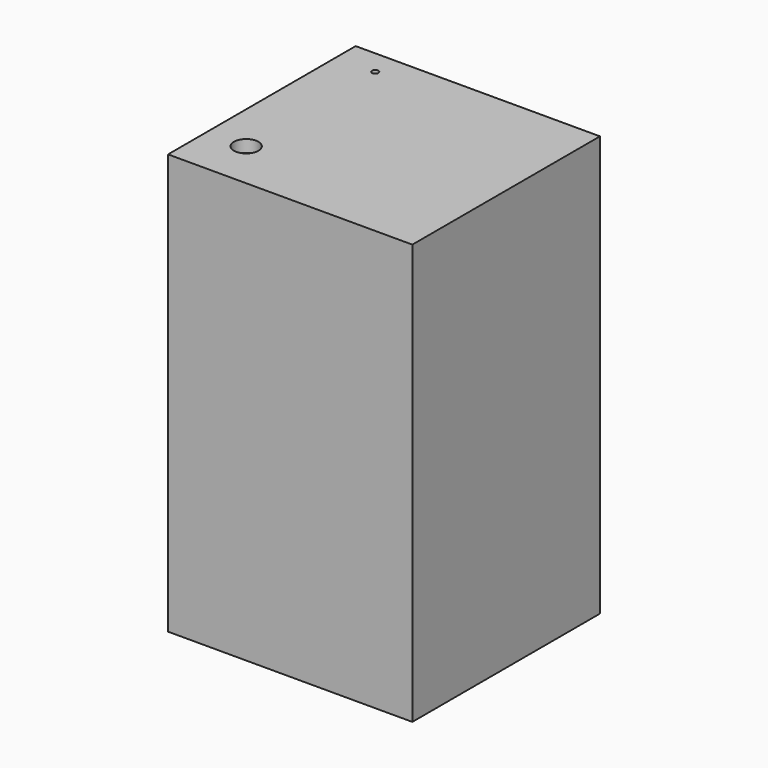
from build123d import *

# Parameters (mm, degrees)
F0_W     = 500
F0_H     = 480
F1_DEPTH = 860
F2_R     = 25
F2_R_2   = 6.5
F3_DEPTH = 25
F4_R     = 6.5
F5_DEPTH = 25


with BuildPart() as f1:
    # F0 (on Top) → F1 (new body)
    with BuildSketch(Plane.XY):
        with Locations((-14.175494, 74.637805)):
            Rectangle(F0_W, F0_H)
    extrude(amount=-F1_DEPTH)

    # F2 (on face) → F3 (cut)
    with BuildSketch(Plane.XY):
        with Locations((-184.175494, -65.362195)):
            Circle(F2_R)
        with Locations((-184.175494, 264.637805)):
            Circle(F2_R_2)
    extrude(amount=-F3_DEPTH, mode=Mode.SUBTRACT)

    # F4 (on face) → F5 (cut)
    with BuildSketch(Plane(origin=(0, 0, -860), x_dir=(1, 0, 0), z_dir=(0, 0, -1))):
        with Locations((-144.175494, -124.637805)):
            Circle(F4_R)
    extrude(amount=-F5_DEPTH, mode=Mode.SUBTRACT)


solid = f1.part
